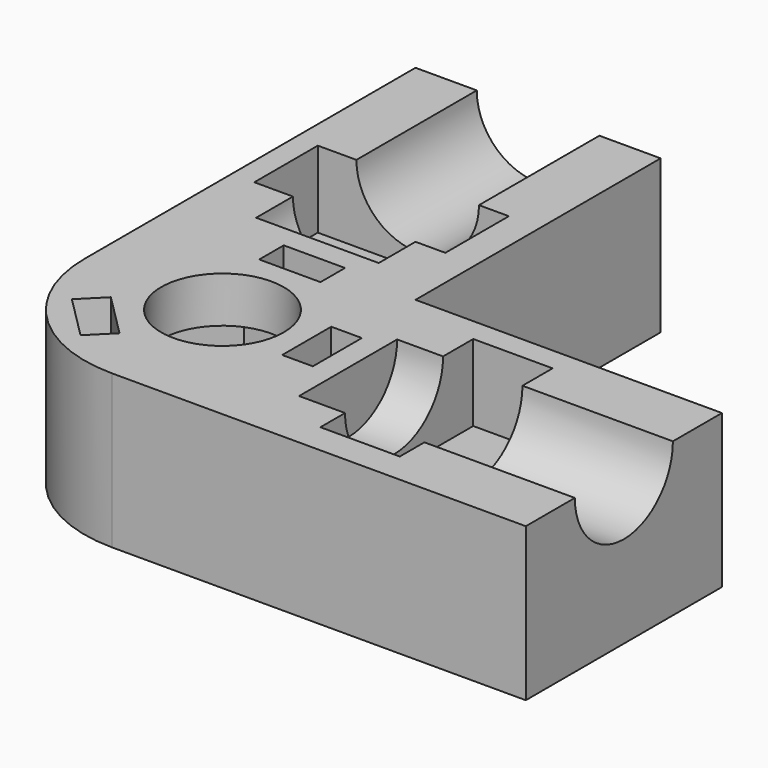
from build123d import *

# Parameters (mm, degrees)
SKETCH003_W   = 12.468703
SKETCH003_H   = 5.180136
SKETCH003_W_2 = 5.180136
SKETCH003_H_2 = 12.468704
PAD003_DEPTH  = 5
SKETCH002_R   = 4
PAD002_DEPTH  = 18
SKETCH001_R   = 4
PAD001_DEPTH  = 18
PAD005_DEPTH  = 7
SKETCH004_W   = 4
SKETCH004_H   = 2
SKETCH004_W_2 = 2
SKETCH004_H_2 = 4
PAD004_DEPTH  = 2.5
SKETCH_R      = 4
PAD_DEPTH     = 10


with BuildPart() as nutmount:
    # Sketch003 → Pad003 (new body)
    with BuildSketch(Plane.XY.offset(10)):
        with Locations((-1.285158, 14.590068)):
            Rectangle(SKETCH003_W, SKETCH003_H)
        with Locations((14.590068, -0.774081)):
            Rectangle(SKETCH003_W_2, SKETCH003_H_2)
    extrude(amount=-PAD003_DEPTH)


with BuildPart() as mount002:
    # Sketch002 → Pad002 (new body)
    with BuildSketch(Plane.XZ.offset(-27)):
        with Locations((-1, 10)):
            Circle(SKETCH002_R)
    extrude(amount=PAD002_DEPTH)


with BuildPart() as mount001:
    # Sketch001 → Pad001 (new body)
    with BuildSketch(Plane.YZ.offset(27)):
        with Locations((-1, 10)):
            Circle(SKETCH001_R)
    extrude(amount=-PAD001_DEPTH)


with BuildPart() as obj1:
    # Sketch005 → Pad005 (new body)
    with BuildSketch(Plane(origin=(0, 0, 0), x_dir=(1, 0, 0), z_dir=(0, 0, -1))):
        Polygon((3.65, -6.321985), (7.3, 0), (3.65, 6.321985), (-3.65, 6.321985), (-7.3, 0), (-3.65, -6.321985), align=None)
    extrude(amount=-PAD005_DEPTH)


with BuildPart() as cutblock:
    # Sketch004 → Pad004 (new body)
    with BuildSketch(Plane.XY.offset(10)):
        with Locations((0, 6.5)):
            Rectangle(SKETCH004_W, SKETCH004_H)
        with Locations((6.5, 0)):
            Rectangle(SKETCH004_W_2, SKETCH004_H_2)
        Polygon((-6.717514, -3.889087), (-5.303301, -2.474874), (-2.474874, -5.303301), (-3.889087, -6.717514), align=None)
    extrude(amount=-PAD004_DEPTH)

    # Fusion: union NutMount, Mount002, Mount001, obj1
    add(nutmount.part)
    add(mount002.part)
    add(mount001.part)
    add(obj1.part)


with BuildPart() as cut:
    # Sketch → Pad (new body)
    with BuildSketch(Plane.XY):
        with BuildLine():
            Line((-9, 3.6e-05), (-9, 27))
            Line((-9, 27), (7, 27))
            Line((7, 27), (7, 7))
            Line((7, 7), (27, 7))
            Line((27, 7), (27, -9))
            Line((27, -9), (3.6e-05, -9))
            ThreePointArc((-9, 3.6e-05), (-6.363961, -6.363961), (3.6e-05, -9))
        make_face()
        Circle(SKETCH_R, mode=Mode.SUBTRACT)
    extrude(amount=PAD_DEPTH)

    # Cut: cut CutBlock
    add(cutblock.part, mode=Mode.SUBTRACT)


solid = cut.part
